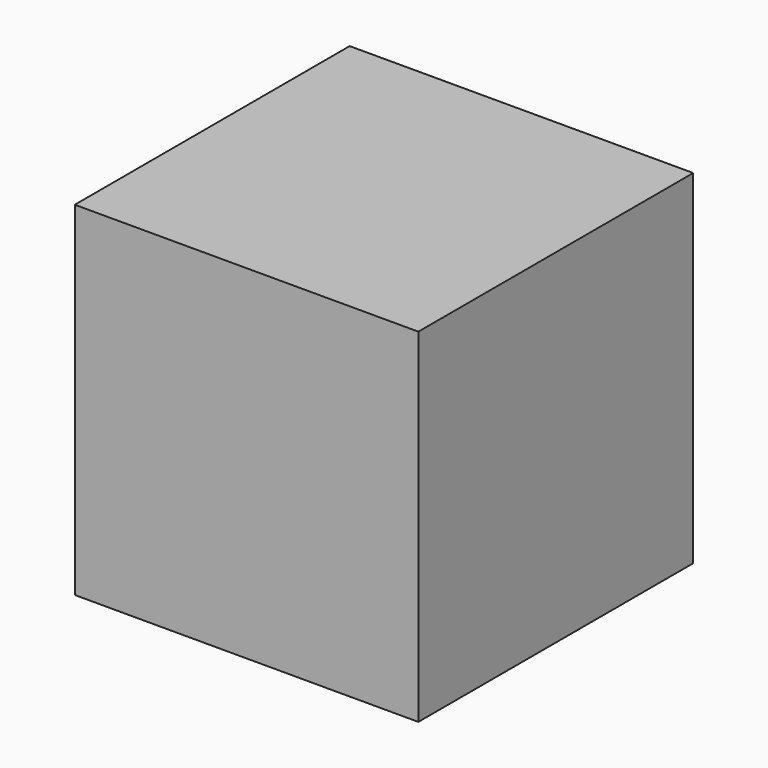
from build123d import *

# Parameters (mm, degrees)
BOX_W     = 1
BOX_H     = 1
BOX_DEPTH = 1


with BuildPart() as sphere:
    # Sphere → Sphere (revolve)
    with BuildSketch(Plane.XZ):
        with BuildLine():
            ThreePointArc((0, -0.25), (0.25, 0), (0, 0.25))
            Line((0, 0.25), (0, -0.25))
        make_face()
    revolve(axis=Axis((0, 0, 0), (0, 0, 1)))


with BuildPart() as cut:
    # Box → Box (new body)
    with BuildSketch(Plane(origin=(-0.5, -1, -0.5), x_dir=(1, 0, 0), z_dir=(0, 0, 1))):
        with Locations((0.5, 0.5)):
            Rectangle(BOX_W, BOX_H)
    extrude(amount=BOX_DEPTH)

    # Cut: cut Sphere
    add(sphere.part, mode=Mode.SUBTRACT)


solid = cut.part
